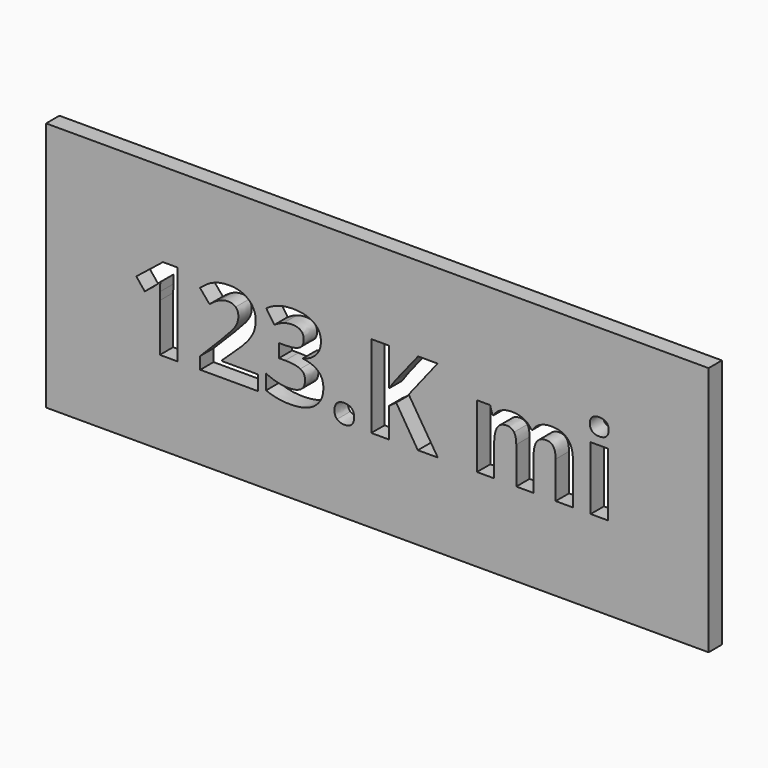
from build123d import *

# Parameters (mm, degrees)
F0_W     = 79.4376842678
F0_H     = 30
F0_W_2   = 2.0681423611
F0_H_2   = 7.5824652778
F1_DEPTH = 2


with BuildPart() as f1:
    # F0 (on Front) → F1 (new body)
    with BuildSketch(Plane.XZ):
        with Locations((5.4461127733, 1.4046798646)):
            Rectangle(F0_W, F0_H)
        with BuildLine():
            Line((-18.5348821384, 6.320044448), (-18.5348821384, -3.5953201354))
            Line((-18.5348821384, -3.5953201354), (-20.6312363051, -3.5953201354))
            Line((-20.6312363051, -3.5953201354), (-20.6312363051, 2.1425270869))
            Line((-20.6312363051, 2.1425270869), (-20.6095349162, 3.0843673646))
            Line((-20.6095349162, 3.0843673646), (-20.5769828328, 4.1151833369))
            add(Edge.make_bspline(
                [(-20.5769828328, 4.1151833369), (-21.0978161662, 3.5943500035), (-21.3018092217, 3.4315895869)],
                knots=[0, 0, 0, 1, 1, 1], degree=2))
            Line((-21.3018092217, 3.4315895869), (-22.4411321384, 2.5157909758))
            Line((-22.4411321384, 2.5157909758), (-23.4524168606, 3.7766416702))
            Line((-23.4524168606, 3.7766416702), (-20.2579724162, 6.320044448))
            Line((-20.2579724162, 6.320044448), (-18.5348821384, 6.320044448))
        make_face(mode=Mode.SUBTRACT)
        with BuildLine():
            add(Edge.make_bspline(
                [(0.6155084866, -3.4759624965), (0.304093556, -3.1743131909), (0.304093556, -2.625268052)],
                knots=[0, 0, 0, 1, 1, 1], degree=2))
            add(Edge.make_bspline(
                [(0.304093556, -2.625268052), (0.304093556, -2.0566916631), (0.6089980699, -1.7648079826)],
                knots=[0, 0, 0, 1, 1, 1], degree=2))
            add(Edge.make_bspline(
                [(0.6089980699, -1.7648079826), (0.9139025838, -1.472924302), (1.4976699449, -1.472924302)],
                knots=[0, 0, 0, 1, 1, 1], degree=2))
            add(Edge.make_bspline(
                [(1.4976699449, -1.472924302), (2.0597359172, -1.472924302), (2.3678956394, -1.7713183992)],
                knots=[0, 0, 0, 1, 1, 1], degree=2))
            add(Edge.make_bspline(
                [(2.3678956394, -1.7713183992), (2.6760553616, -2.0697124965), (2.6760553616, -2.625268052)],
                knots=[0, 0, 0, 1, 1, 1], degree=2))
            add(Edge.make_bspline(
                [(2.6760553616, -2.625268052), (2.6760553616, -3.1612923576), (2.364640431, -3.4694520798)],
                knots=[0, 0, 0, 1, 1, 1], degree=2))
            add(Edge.make_bspline(
                [(2.364640431, -3.4694520798), (2.0532255005, -3.777611802), (1.4976699449, -3.777611802)],
                knots=[0, 0, 0, 1, 1, 1], degree=2))
            add(Edge.make_bspline(
                [(1.4976699449, -3.777611802), (0.9269234172, -3.777611802), (0.6155084866, -3.4759624965)],
                knots=[0, 0, 0, 1, 1, 1], degree=2))
        make_face(mode=Mode.SUBTRACT)
        with BuildLine():
            add(Edge.make_bspline(
                [(-2.2089272773, 5.8371885452), (-1.317000194, 5.2132736146), (-1.317000194, 4.1021625035)],
                knots=[0, 0, 0, 1, 1, 1], degree=2))
            add(Edge.make_bspline(
                [(-1.317000194, 4.1021625035), (-1.317000194, 3.1733430591), (-1.8801512356, 2.5223013924)],
                knots=[0, 0, 0, 1, 1, 1], degree=2))
            add(Edge.make_bspline(
                [(-1.8801512356, 2.5223013924), (-2.4433022773, 1.8712597258), (-3.4610974162, 1.6260340313)],
                knots=[0, 0, 0, 1, 1, 1], degree=2))
            Line((-3.4610974162, 1.6260340313), (-3.4610974162, 1.5869715313))
            add(Edge.make_bspline(
                [(-3.4610974162, 1.5869715313), (-2.2588404717, 1.437231948), (-1.6425210273, 0.8567197952)],
                knots=[0, 0, 0, 1, 1, 1], degree=2))
            add(Edge.make_bspline(
                [(-1.6425210273, 0.8567197952), (-1.0262015828, 0.2762076424), (-1.0262015828, -0.7068652742)],
                knots=[0, 0, 0, 1, 1, 1], degree=2))
            add(Edge.make_bspline(
                [(-1.0262015828, -0.7068652742), (-1.0262015828, -2.136986802), (-2.0635279717, -2.9345128437)],
                knots=[0, 0, 0, 1, 1, 1], degree=2))
            add(Edge.make_bspline(
                [(-2.0635279717, -2.9345128437), (-3.1008543606, -3.7320388854), (-5.0257675551, -3.7320388854)],
                knots=[0, 0, 0, 1, 1, 1], degree=2))
            add(Edge.make_bspline(
                [(-5.0257675551, -3.7320388854), (-6.6403508884, -3.7320388854), (-7.8881807495, -3.1960145798)],
                knots=[0, 0, 0, 1, 1, 1], degree=2))
            Line((-7.8881807495, -3.1960145798), (-7.8881807495, -1.4121604131))
            add(Edge.make_bspline(
                [(-7.8881807495, -1.4121604131), (-7.313093944, -1.7029590242), (-6.6208196384, -1.8863357604)],
                knots=[0, 0, 0, 1, 1, 1], degree=2))
            add(Edge.make_bspline(
                [(-6.6208196384, -1.8863357604), (-5.9285453328, -2.0697124965), (-5.2514619995, -2.0697124965)],
                knots=[0, 0, 0, 1, 1, 1], degree=2))
            add(Edge.make_bspline(
                [(-5.2514619995, -2.0697124965), (-4.2119654717, -2.0697124965), (-3.7171738051, -1.717064927)],
                knots=[0, 0, 0, 1, 1, 1], degree=2))
            add(Edge.make_bspline(
                [(-3.7171738051, -1.717064927), (-3.2223821384, -1.3644173576), (-3.2223821384, -0.5831673576)],
                knots=[0, 0, 0, 1, 1, 1], degree=2))
            add(Edge.make_bspline(
                [(-3.2223821384, -0.5831673576), (-3.2223821384, 0.1134472258), (-3.7920435967, 0.4053309063)],
                knots=[0, 0, 0, 1, 1, 1], degree=2))
            add(Edge.make_bspline(
                [(-3.7920435967, 0.4053309063), (-4.3617050551, 0.6972145869), (-5.6095349162, 0.6972145869)],
                knots=[0, 0, 0, 1, 1, 1], degree=2))
            Line((-5.6095349162, 0.6972145869), (-6.3625731106, 0.6972145869))
            Line((-6.3625731106, 0.6972145869), (-6.3625731106, 2.3052875035))
            Line((-6.3625731106, 2.3052875035), (-5.5965140828, 2.3052875035))
            add(Edge.make_bspline(
                [(-5.5965140828, 2.3052875035), (-4.4441703328, 2.3052875035), (-3.9114012356, 2.6069368091)],
                knots=[0, 0, 0, 1, 1, 1], degree=2))
            add(Edge.make_bspline(
                [(-3.9114012356, 2.6069368091), (-3.3786321384, 2.9085861146), (-3.3786321384, 3.6399229202)],
                knots=[0, 0, 0, 1, 1, 1], degree=2))
            add(Edge.make_bspline(
                [(-3.3786321384, 3.6399229202), (-3.3786321384, 4.7662250035), (-4.7892224162, 4.7662250035)],
                knots=[0, 0, 0, 1, 1, 1], degree=2))
            add(Edge.make_bspline(
                [(-4.7892224162, 4.7662250035), (-5.2775036662, 4.7662250035), (-5.7831460273, 4.6034645869)],
                knots=[0, 0, 0, 1, 1, 1], degree=2))
            add(Edge.make_bspline(
                [(-5.7831460273, 4.6034645869), (-6.2887883884, 4.4407041702), (-6.9051078328, 4.0413986146)],
                knots=[0, 0, 0, 1, 1, 1], degree=2))
            Line((-6.9051078328, 4.0413986146), (-7.8751599162, 5.4845409758))
            add(Edge.make_bspline(
                [(-7.8751599162, 5.4845409758), (-6.5188231106, 6.4611034758), (-4.6394828328, 6.4611034758)],
                knots=[0, 0, 0, 1, 1, 1], degree=2))
            add(Edge.make_bspline(
                [(-4.6394828328, 6.4611034758), (-3.1008543606, 6.4611034758), (-2.2089272773, 5.8371885452)],
                knots=[0, 0, 0, 1, 1, 1], degree=2))
        make_face(mode=Mode.SUBTRACT)
        Polygon((9.2081734172, 1.9320236146), (12.6934164727, -3.5953201354), (10.3062636949, -3.5953201354), (7.7086074449, 0.5821972258), (6.8210206394, -0.0558236076), (6.8210206394, -3.5953201354), (4.718156056, -3.5953201354), (4.718156056, 6.320044448), (6.8210206394, 6.320044448), (6.8210206394, 1.7822840313), (7.647843556, 2.9498187535), (10.3344755005, 6.320044448), (12.667374806, 6.320044448), align=None, mode=Mode.SUBTRACT)
        with BuildLine():
            Line((24.1756213338, 0.2089333369), (24.1756213338, -3.5953201354))
            Line((24.1756213338, -3.5953201354), (22.1074789727, -3.5953201354))
            Line((22.1074789727, -3.5953201354), (22.1074789727, 0.8339333369))
            add(Edge.make_bspline(
                [(22.1074789727, 0.8339333369), (22.1074789727, 1.6542458369), (21.8329564033, 2.0644020869)],
                knots=[0, 0, 0, 1, 1, 1], degree=2))
            add(Edge.make_bspline(
                [(21.8329564033, 2.0644020869), (21.5584338338, 2.4745583369), (20.968156056, 2.4745583369)],
                knots=[0, 0, 0, 1, 1, 1], degree=2))
            add(Edge.make_bspline(
                [(20.968156056, 2.4745583369), (20.1738852227, 2.4745583369), (19.8147272366, 1.8907909758)],
                knots=[0, 0, 0, 1, 1, 1], degree=2))
            add(Edge.make_bspline(
                [(19.8147272366, 1.8907909758), (19.4555692505, 1.3070236146), (19.4555692505, -0.027611802)],
                knots=[0, 0, 0, 1, 1, 1], degree=2))
            Line((19.4555692505, -0.027611802), (19.4555692505, -3.5953201354))
            Line((19.4555692505, -3.5953201354), (17.3874268894, -3.5953201354))
            Line((17.3874268894, -3.5953201354), (17.3874268894, 3.9871451424))
            Line((17.3874268894, 3.9871451424), (18.9672880005, 3.9871451424))
            Line((18.9672880005, 3.9871451424), (19.2450657783, 3.0170930591))
            Line((19.2450657783, 3.0170930591), (19.3600831394, 3.0170930591))
            add(Edge.make_bspline(
                [(19.3600831394, 3.0170930591), (19.6660727227, 3.5400965313), (20.2422445977, 3.8341503508)],
                knots=[0, 0, 0, 1, 1, 1], degree=2))
            add(Edge.make_bspline(
                [(20.2422445977, 3.8341503508), (20.8184164727, 4.1282041702), (21.5649442505, 4.1282041702)],
                knots=[0, 0, 0, 1, 1, 1], degree=2))
            add(Edge.make_bspline(
                [(21.5649442505, 4.1282041702), (23.2663331394, 4.1282041702), (23.8718018894, 3.0170930591)],
                knots=[0, 0, 0, 1, 1, 1], degree=2))
            Line((23.8718018894, 3.0170930591), (24.054093556, 3.0170930591))
            add(Edge.make_bspline(
                [(24.054093556, 3.0170930591), (24.3600831394, 3.546606948), (24.952531056, 3.8374055591)],
                knots=[0, 0, 0, 1, 1, 1], degree=2))
            add(Edge.make_bspline(
                [(24.952531056, 3.8374055591), (25.5449789727, 4.1282041702), (26.2915067505, 4.1282041702)],
                knots=[0, 0, 0, 1, 1, 1], degree=2))
            add(Edge.make_bspline(
                [(26.2915067505, 4.1282041702), (27.5805692505, 4.1282041702), (28.2413765422, 3.4673968785)],
                knots=[0, 0, 0, 1, 1, 1], degree=2))
            add(Edge.make_bspline(
                [(28.2413765422, 3.4673968785), (28.9021838338, 2.8065895869), (28.9021838338, 1.3482562535)],
                knots=[0, 0, 0, 1, 1, 1], degree=2))
            Line((28.9021838338, 1.3482562535), (28.9021838338, -3.5953201354))
            Line((28.9021838338, -3.5953201354), (26.827531056, -3.5953201354))
            Line((26.827531056, -3.5953201354), (26.827531056, 0.8339333369))
            add(Edge.make_bspline(
                [(26.827531056, 0.8339333369), (26.827531056, 1.6542458369), (26.5530084866, 2.0644020869)],
                knots=[0, 0, 0, 1, 1, 1], degree=2))
            add(Edge.make_bspline(
                [(26.5530084866, 2.0644020869), (26.2784859172, 2.4745583369), (25.6882081394, 2.4745583369)],
                knots=[0, 0, 0, 1, 1, 1], degree=2))
            add(Edge.make_bspline(
                [(25.6882081394, 2.4745583369), (24.9286595283, 2.4745583369), (24.552140431, 1.9320236146)],
                knots=[0, 0, 0, 1, 1, 1], degree=2))
            add(Edge.make_bspline(
                [(24.552140431, 1.9320236146), (24.1756213338, 1.3894888924), (24.1756213338, 0.2089333369)],
                knots=[0, 0, 0, 1, 1, 1], degree=2))
        make_face(mode=Mode.SUBTRACT)
        with Locations((32.0586508477, 0.1959125035)):
            Rectangle(F0_W_2, F0_H_2, mode=Mode.SUBTRACT)
        with BuildLine():
            Line((-8.8582328328, -1.8309972187), (-8.8582328328, -3.5953201354))
            Line((-8.8582328328, -3.5953201354), (-15.789656444, -3.5953201354))
            Line((-15.789656444, -3.5953201354), (-15.789656444, -2.136986802))
            Line((-15.789656444, -2.136986802), (-13.3005071384, 0.3782041702))
            add(Edge.make_bspline(
                [(-13.3005071384, 0.3782041702), (-12.1937363051, 1.5110166702), (-11.8551946384, 1.9482996563)],
                knots=[0, 0, 0, 1, 1, 1], degree=2))
            add(Edge.make_bspline(
                [(-11.8551946384, 1.9482996563), (-11.5166529717, 2.3855826424), (-11.3669133884, 2.7588465313)],
                knots=[0, 0, 0, 1, 1, 1], degree=2))
            add(Edge.make_bspline(
                [(-11.3669133884, 2.7588465313), (-11.2171738051, 3.1321104202), (-11.2171738051, 3.5314159758)],
                knots=[0, 0, 0, 1, 1, 1], degree=2))
            add(Edge.make_bspline(
                [(-11.2171738051, 3.5314159758), (-11.2171738051, 4.1282041702), (-11.5470349162, 4.4200878508)],
                knots=[0, 0, 0, 1, 1, 1], degree=2))
            add(Edge.make_bspline(
                [(-11.5470349162, 4.4200878508), (-11.8768960273, 4.7119715313), (-12.4259411662, 4.7119715313)],
                knots=[0, 0, 0, 1, 1, 1], degree=2))
            add(Edge.make_bspline(
                [(-12.4259411662, 4.7119715313), (-13.0010279717, 4.7119715313), (-13.543562694, 4.4472145869)],
                knots=[0, 0, 0, 1, 1, 1], degree=2))
            add(Edge.make_bspline(
                [(-13.543562694, 4.4472145869), (-14.0860974162, 4.1824576424), (-14.676375194, 3.6941763924)],
                knots=[0, 0, 0, 1, 1, 1], degree=2))
            Line((-14.676375194, 3.6941763924), (-15.8156981106, 5.0440027813))
            add(Edge.make_bspline(
                [(-15.8156981106, 5.0440027813), (-15.0843613051, 5.6690027813), (-14.6025904717, 5.9261642396)],
                knots=[0, 0, 0, 1, 1, 1], degree=2))
            add(Edge.make_bspline(
                [(-14.6025904717, 5.9261642396), (-14.1208196384, 6.183325698), (-13.5511581801, 6.3222145869)],
                knots=[0, 0, 0, 1, 1, 1], degree=2))
            add(Edge.make_bspline(
                [(-13.5511581801, 6.3222145869), (-12.9814967217, 6.4611034758), (-12.2762015828, 6.4611034758)],
                knots=[0, 0, 0, 1, 1, 1], degree=2))
            add(Edge.make_bspline(
                [(-12.2762015828, 6.4611034758), (-11.3473821384, 6.4611034758), (-10.6355765828, 6.1225618091)],
                knots=[0, 0, 0, 1, 1, 1], degree=2))
            add(Edge.make_bspline(
                [(-10.6355765828, 6.1225618091), (-9.9237710273, 5.7840201424), (-9.529890819, 5.1731260452)],
                knots=[0, 0, 0, 1, 1, 1], degree=2))
            add(Edge.make_bspline(
                [(-9.529890819, 5.1731260452), (-9.1360106106, 4.562231948), (-9.1360106106, 3.7766416702)],
                knots=[0, 0, 0, 1, 1, 1], degree=2))
            add(Edge.make_bspline(
                [(-9.1360106106, 3.7766416702), (-9.1360106106, 3.0908777813), (-9.3768960273, 2.4908343785)],
                knots=[0, 0, 0, 1, 1, 1], degree=2))
            add(Edge.make_bspline(
                [(-9.3768960273, 2.4908343785), (-9.617781444, 1.8907909758), (-10.1234238051, 1.2603656285)],
                knots=[0, 0, 0, 1, 1, 1], degree=2))
            add(Edge.make_bspline(
                [(-10.1234238051, 1.2603656285), (-10.6290661662, 0.6299402813), (-11.902937694, -0.5375944409)],
                knots=[0, 0, 0, 1, 1, 1], degree=2))
            Line((-11.902937694, -0.5375944409), (-13.1789793606, -1.7376812465))
            Line((-13.1789793606, -1.7376812465), (-13.1789793606, -1.8309972187))
            Line((-13.1789793606, -1.8309972187), (-8.8582328328, -1.8309972187))
        make_face(mode=Mode.SUBTRACT)
        with BuildLine():
            add(Edge.make_bspline(
                [(32.061906056, 4.9289854202), (30.9356039727, 4.9289854202), (30.9356039727, 5.9467805591)],
                knots=[0, 0, 0, 1, 1, 1], degree=2))
            add(Edge.make_bspline(
                [(30.9356039727, 5.9467805591), (30.9356039727, 6.9580652813), (32.061906056, 6.9580652813)],
                knots=[0, 0, 0, 1, 1, 1], degree=2))
            add(Edge.make_bspline(
                [(32.061906056, 6.9580652813), (33.1882081394, 6.9580652813), (33.1882081394, 5.9467805591)],
                knots=[0, 0, 0, 1, 1, 1], degree=2))
            add(Edge.make_bspline(
                [(33.1882081394, 5.9467805591), (33.1882081394, 5.4650097258), (32.9071751533, 5.196997573)],
                knots=[0, 0, 0, 1, 1, 1], degree=2))
            add(Edge.make_bspline(
                [(32.9071751533, 5.196997573), (32.6261421672, 4.9289854202), (32.061906056, 4.9289854202)],
                knots=[0, 0, 0, 1, 1, 1], degree=2))
        make_face(mode=Mode.SUBTRACT)
    extrude(amount=F1_DEPTH)


solid = f1.part
